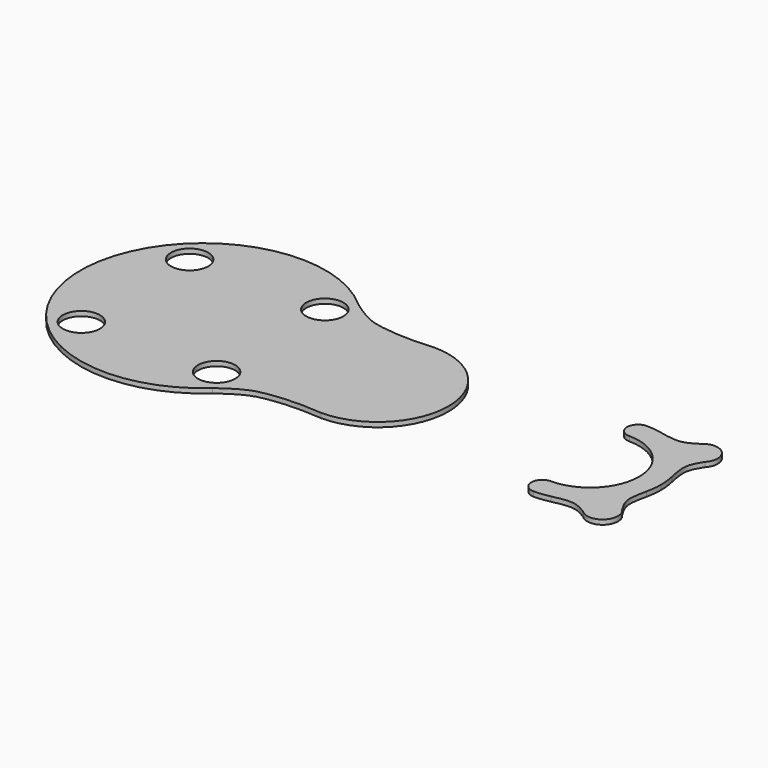
from build123d import *

# Parameters (mm, degrees)
F0_R     = 50
F1_DEPTH = 12.7


with BuildPart() as f1:
    # F0 (on Top) → F1 (new body)
    with BuildSketch(Plane.XY):
        with BuildLine():
            add(Edge.make_bspline(
                [(469.9, 190.5), (414.7021226199, 185.0982024329), (312.1123093023, 190.3979484167), (270.2493008939, 209.791310107), (221.3368791864, 245.0347442956)],
                knots=[0, 0, 0, 0, 0.5331164092, 1, 1, 1, 1], degree=3))
            ThreePointArc((221.3368791864, 245.0347442956), (-330.2, 0), (221.3368791864, -245.0347442956))
            add(Edge.make_bspline(
                [(469.9, -190.5), (414.7021226199, -185.0982024329), (312.1123093023, -190.3979484167), (270.2493008939, -209.791310107), (221.3368791864, -245.0347442956)],
                knots=[0, 0, 0, 0, 0.5331164092, 1, 1, 1, 1], degree=3))
            ThreePointArc((469.9, -190.5), (660.4, 0), (469.9, 190.5))
        make_face()
        with Locations((-182.0799961555, -182.0799961555)):
            Circle(F0_R, mode=Mode.SUBTRACT)
        with Locations((182.0799961555, -182.0799961555)):
            Circle(F0_R, mode=Mode.SUBTRACT)
        with Locations((-182.0799961555, 182.0799961555)):
            Circle(F0_R, mode=Mode.SUBTRACT)
        with Locations((182.0799961555, 182.0799961555)):
            Circle(F0_R, mode=Mode.SUBTRACT)
    extrude(amount=F1_DEPTH)


with BuildPart() as f1b:
    # F0 (on Top) → F1, piece 2 (new body)
    with BuildSketch(Plane.XY):
        with BuildLine():
            add(Edge.make_bspline(
                [(1181.3766119803, 197.6921478188), (1168.8379561315, 189.8339139976), (1141.8774811611, 173.1941766754), (1104.8288574492, 181.3313279996), (1085.0785449809, 185.573491397)],
                knots=[0, 0, 0, 0, 0.4681351674, 1, 1, 1, 1], degree=3))
            ThreePointArc((1085.0785449809, 185.573491397), (1063.6973807185, 189.2643655197), (1042.0352029786, 190.5))
            ThreePointArc((1042.0352029786, 190.5), (1012.6664529786, 161.13125), (1042.0352029786, 131.7625))
            ThreePointArc((1042.0352029786, 131.7625), (1135.2053602347, 93.1701572561), (1173.7977029786, 0))
            ThreePointArc((1173.7977029786, 0), (1135.2053602347, -93.1701572561), (1042.0352029786, -131.7625))
            ThreePointArc((1042.0352029786, -131.7625), (1012.6664529786, -161.13125), (1042.0352029786, -190.5))
            ThreePointArc((1042.0352029786, -190.5), (1063.6973807185, -189.2643655197), (1085.0785449809, -185.573491397))
            add(Edge.make_bspline(
                [(1181.3766119803, -197.6921478188), (1168.8379561315, -189.8339139976), (1141.8774811611, -173.1941766754), (1104.8288574492, -181.3313279996), (1085.0785449809, -185.573491397)],
                knots=[0, 0, 0, 0, 0.4681351674, 1, 1, 1, 1], degree=3))
            ThreePointArc((1181.3766119803, -197.6921478188), (1238.9563840838, -196.9211811052), (1239.7273507974, -139.3414090017))
            add(Edge.make_bspline(
                [(1239.7273507974, -139.3414090017), (1231.8691169762, -126.8027531529), (1215.229379654, -99.8422781825), (1223.3665309782, -62.7936544706), (1227.6086943756, -43.0433420023)],
                knots=[0, 0, 0, 0, 0.4681351674, 1, 1, 1, 1], degree=3))
            ThreePointArc((1227.6086943756, -43.0433420023), (1231.2995684983, -21.6621777399), (1232.5352029786, 0))
            ThreePointArc((1232.5352029786, 0), (1231.2995684983, 21.6621777399), (1227.6086943756, 43.0433420023))
            add(Edge.make_bspline(
                [(1239.7273507974, 139.3414090017), (1231.8691169762, 126.8027531529), (1215.229379654, 99.8422781825), (1223.3665309782, 62.7936544706), (1227.6086943756, 43.0433420023)],
                knots=[0, 0, 0, 0, 0.4681351674, 1, 1, 1, 1], degree=3))
            ThreePointArc((1239.7273507974, 139.3414090017), (1238.9563840838, 196.9211811052), (1181.3766119803, 197.6921478188))
        make_face()
    extrude(amount=F1_DEPTH)


solid = Compound([f1.part, f1b.part])
